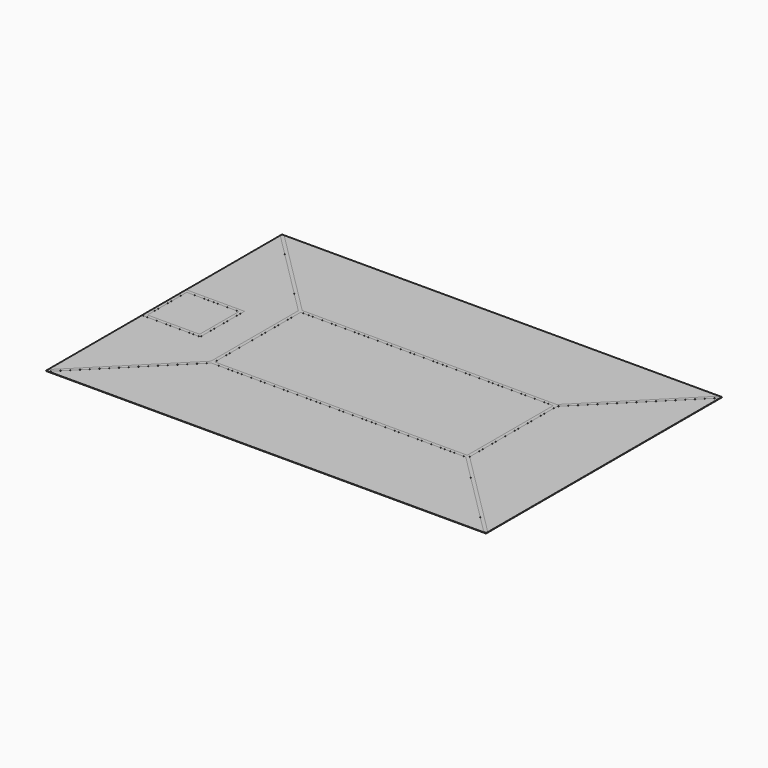
from build123d import *

# Parameters (mm, degrees)
F0_W     = 3638.55
F0_H     = 2438.4
F1_DEPTH = 3.175
F2_W     = 482.6
F2_H     = 457.2
F2_W_2   = 431.8
F2_H_2   = 406.4
F3_DEPTH = 0.254
F4_W     = 2089.15
F4_H     = 889
F5_DEPTH = 0.254


with BuildPart() as f1:
    # F0 (on Top) → F1 (new body)
    with BuildSketch(Plane.XY):
        Rectangle(F0_W, F0_H)
    extrude(amount=F1_DEPTH)


with BuildPart() as f3:
    # F2 (on face) → F3 (new body)
    with BuildSketch(Plane.XY.offset(3.175)):
        with Locations((-1577.975, 0)):
            Rectangle(F2_W, F2_H)
        with Locations((-1577.975, 0)):
            Rectangle(F2_W_2, F2_H_2, mode=Mode.SUBTRACT)
    extrude(amount=F3_DEPTH)


with BuildPart() as f5:
    # F4 (on face) → F5 (new body)
    with BuildSketch(Plane.XY.offset(3.175)):
        Polygon((-1819.275, 1201.239488), (-1069.975, 451.939488), (-1069.975, -451.939488), (-1819.275, -1201.239488), (-1801.314488, -1219.2), (-1052.014488, -469.9), (1052.014488, -469.9), (1801.314488, -1219.2), (1819.275, -1201.239488), (1069.975, -451.939488), (1069.975, 451.939488), (1819.275, 1201.239488), (1801.314488, 1219.2), (1052.014488, 469.9), (-1052.014488, 469.9), (-1801.314488, 1219.2), align=None)
        Rectangle(F4_W, F4_H, mode=Mode.SUBTRACT)
    extrude(amount=F5_DEPTH)


solid = Compound([f1.part, f3.part, f5.part])
